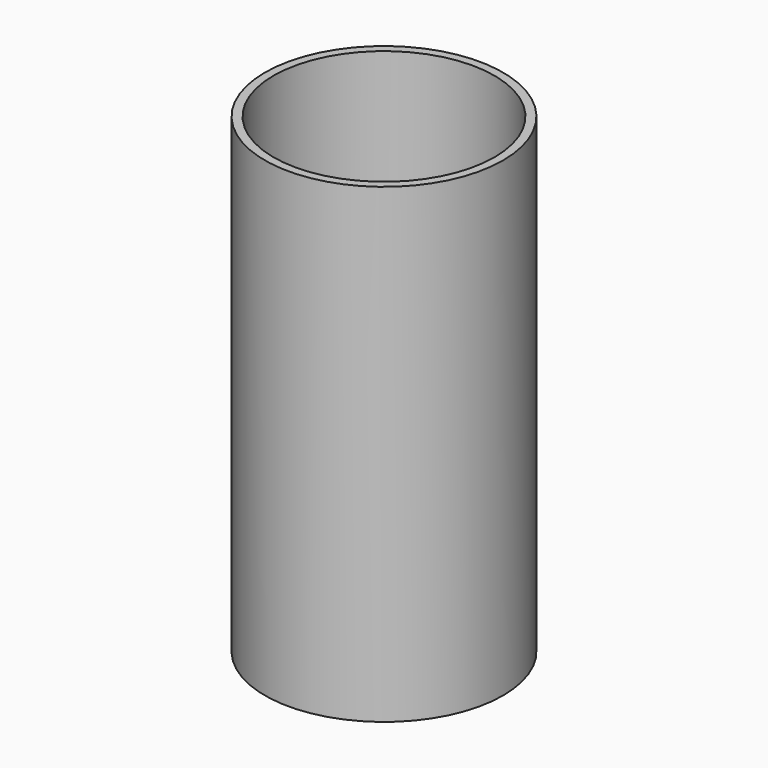
from build123d import *

# Parameters (mm, degrees)
F0_R      = 17.653
F0_R_2    = 16.383
F1_DEPTH  = 69.85
F2_W      = 12.7
F2_H      = 7.62
F6_R      = 2.54
F7_DEPTH  = 25.4
F8_R      = 15.875
F8_R_2    = 13.97
F9_DEPTH  = 2.54
F10_DEPTH = 7.62
F11_DEPTH = 2.54
F3_W      = 9.525
F3_H      = 5.08
F12_DEPTH = 25.4
F13_W     = 6.35
F13_H     = 5.588
F14_DEPTH = 16.51


with BuildPart() as f1:
    # F0 (on Top) → F1 (new body)
    with BuildSketch(Plane.XY):
        Circle(F0_R)
        Circle(F0_R_2, mode=Mode.SUBTRACT)
    extrude(amount=F1_DEPTH)

    # F2 (on Right) → F4 (join, up to the next surface of F1)
    with BuildSketch(Plane.YZ):
        with Locations((9.525, 16.51)):
            Rectangle(F2_W, F2_H)
    extrude(until=Until.NEXT, dir=(-1, 0, 0))

    # F2 (on Right) → F5 (join, up to the next surface of F1)
    with BuildSketch(Plane.YZ):
        with Locations((9.525, 16.51)):
            Rectangle(F2_W, F2_H)
    extrude(until=Until.NEXT)

    # F6 (on Right) → F7 (cut)
    with BuildSketch(Plane.YZ):
        with Locations((0, 8.509)):
            Circle(F6_R)
    extrude(amount=-F7_DEPTH, mode=Mode.SUBTRACT)

    # F8 (on face) → F9 (join)
    with BuildSketch(Plane(origin=(0, 0, 12.7), x_dir=(1, 0, 0), z_dir=(0, 0, -1))):
        Circle(F8_R)
        Circle(F8_R_2, mode=Mode.SUBTRACT)
    extrude(amount=-F9_DEPTH)

    # F8 (on face) → F10 (join)
    with BuildSketch(Plane(origin=(0, 0, 12.7), x_dir=(1, 0, 0), z_dir=(0, 0, -1))):
        Circle(F8_R)
        Circle(F8_R_2, mode=Mode.SUBTRACT)
    extrude(amount=-F10_DEPTH)

    # F8 (on face) → F11 (cut)
    with BuildSketch(Plane(origin=(0, 0, 12.7), x_dir=(1, 0, 0), z_dir=(0, 0, -1))):
        with BuildLine():
            Line((13.6044211564, -3.175), (-13.6044211564, -3.175))
            ThreePointArc((-13.6044211564, -3.175), (0, -13.97), (13.6044211564, -3.175))
        make_face()
    extrude(amount=-F11_DEPTH, mode=Mode.SUBTRACT)

    # F3 (on Front) → F12 (cut)
    with BuildSketch(Plane.XZ):
        with Locations((0, 15.24)):
            Rectangle(F3_W, F3_H)
    extrude(amount=-F12_DEPTH, mode=Mode.SUBTRACT)

    # F13 (on Right) → F14 (cut)
    with BuildSketch(Plane.YZ):
        with Locations((0, 8.509)):
            Rectangle(F13_W, F13_H)
    extrude(amount=-F14_DEPTH, mode=Mode.SUBTRACT)


solid = f1.part
